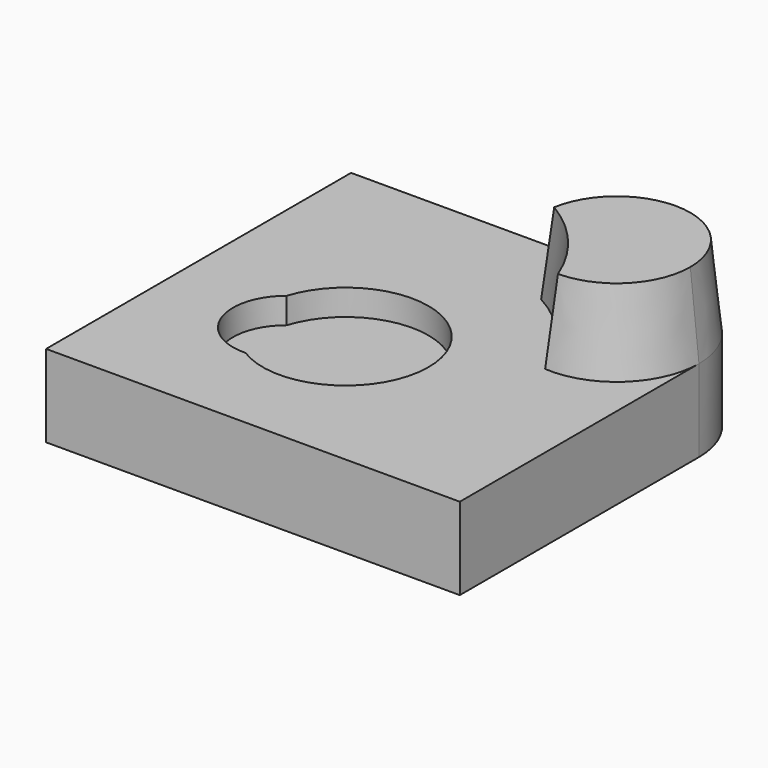
from build123d import *

# Parameters (mm, degrees)
F0_W     = 127.7336031199
F0_H     = 117.6951080561
F1_DEPTH = 25.4
F2_R     = 25.4
F4_DEPTH = 8
F6_DEPTH = 25.4
F6_TAPER = 6


with BuildPart() as f1:
    # F0 (on Top) → F1 (new body)
    with BuildSketch(Plane.XY):
        with Locations((63.8668015599, 58.847554028)):
            Rectangle(F0_W, F0_H)
    extrude(amount=F1_DEPTH)

    # F2
    f2_edges = [f1.edges().sort_by_distance(p)[0] for p in [
        (127.733603, 117.695108, 12.7),
    ]]
    fillet(f2_edges, radius=F2_R)

    # F3 (on face) → F4 (cut)
    with BuildSketch(Plane.XY.offset(25.4)):
        with BuildLine():
            ThreePointArc((38.8666712233, 28.4028087029), (76.3769148887, 58.9921224705), (27.9881136193, 57.8748005294))
            ThreePointArc((27.9881136193, 57.8748005294), (22.7769180991, 39.2075535793), (38.8666712233, 28.4028087029))
        make_face()
    extrude(amount=-F4_DEPTH, mode=Mode.SUBTRACT)

    # F5 (on face) → F6 (join)
    with BuildSketch(Plane.XY.offset(25.4)):
        with BuildLine():
            ThreePointArc((77.0522903969, 94.7477040289), (91.3384484979, 83.0158556177), (100.5024355694, 66.9612014208))
            ThreePointArc((100.5024355694, 66.9612014208), (119.6345907249, 73.6984463156), (127.7336031199, 92.2951080561))
            ThreePointArc((127.7336031199, 92.2951080561), (120.294115362, 110.2556202982), (102.3336031199, 117.6951080561))
            ThreePointArc((102.3336031199, 117.6951080561), (85.26222265, 111.1027652428), (77.0522903969, 94.7477040289))
        make_face()
    extrude(amount=F6_DEPTH, taper=F6_TAPER)


solid = f1.part
